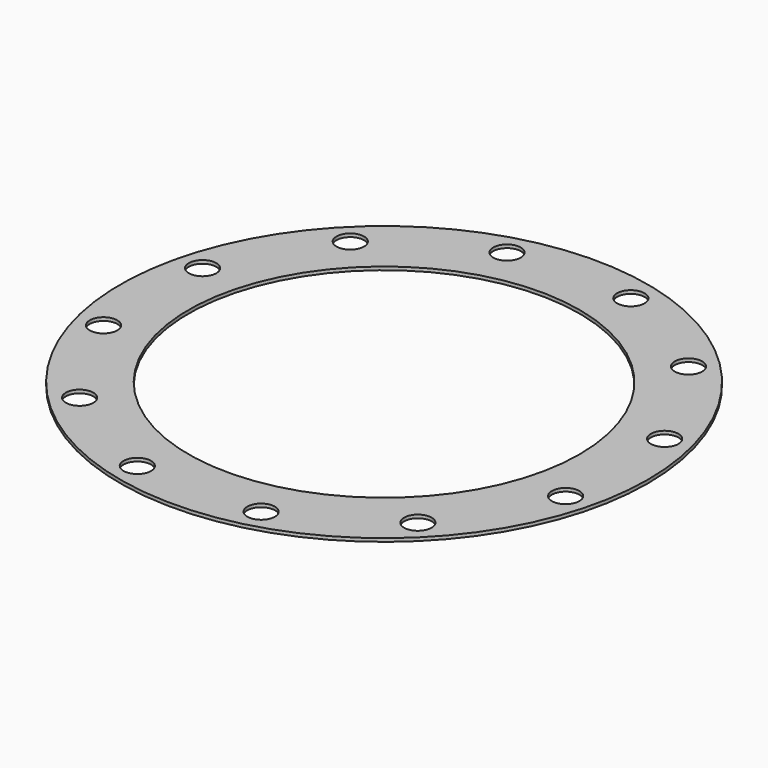
from build123d import *

# Parameters (mm, degrees)
F1_R     = 240
F1_R_2   = 12.5
F1_R_3   = 177.8
F2_DEPTH = 3


with BuildPart() as f2:
    # F1 (on offset) → F2 (new body)
    with BuildSketch(Plane.XY.offset(512)):
        with Locations((0, 101.6)):
            Circle(F1_R)
        with Locations((-153.795725, -52.195725)):
            Circle(F1_R_2, mode=Mode.SUBTRACT)
        with Locations((-56.293142, -108.488867)):
            Circle(F1_R_2, mode=Mode.SUBTRACT)
        with Locations((-210.088867, 45.306858)):
            Circle(F1_R_2, mode=Mode.SUBTRACT)
        with Locations((56.293142, -108.488867)):
            Circle(F1_R_2, mode=Mode.SUBTRACT)
        with Locations((153.795725, -52.195725)):
            Circle(F1_R_2, mode=Mode.SUBTRACT)
        with Locations((210.088867, 45.306858)):
            Circle(F1_R_2, mode=Mode.SUBTRACT)
        with Locations((-210.088867, 157.893142)):
            Circle(F1_R_2, mode=Mode.SUBTRACT)
        with Locations((-153.795725, 255.395725)):
            Circle(F1_R_2, mode=Mode.SUBTRACT)
        with Locations((-56.293142, 311.688867)):
            Circle(F1_R_2, mode=Mode.SUBTRACT)
        with Locations((0, 101.6)):
            Circle(F1_R_3, mode=Mode.SUBTRACT)
        with Locations((210.088867, 157.893142)):
            Circle(F1_R_2, mode=Mode.SUBTRACT)
        with Locations((56.293142, 311.688867)):
            Circle(F1_R_2, mode=Mode.SUBTRACT)
        with Locations((153.795725, 255.395725)):
            Circle(F1_R_2, mode=Mode.SUBTRACT)
    extrude(amount=-F2_DEPTH)


solid = f2.part
